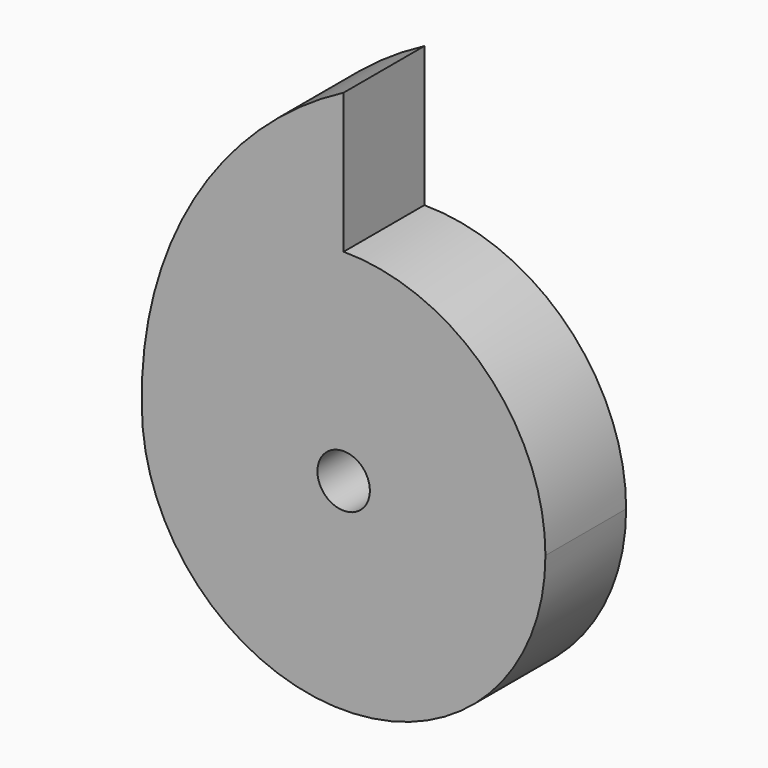
from build123d import *

# Parameters (mm, degrees)
F0_R     = 3.302
F1_DEPTH = 12.7


with BuildPart() as f1:
    # F0 (on Front) → F1 (new body)
    with BuildSketch(Plane.XZ):
        with BuildLine():
            ThreePointArc((-25.4, 0), (0, -25.4), (25.4, 0))
            ThreePointArc((25.4, 0), (17.960512, 17.960512), (0, 25.4))
            ThreePointArc((0, 25.4), (-17.960512, 17.960512), (-25.4, 0))
        make_face()
        Circle(F0_R, mode=Mode.SUBTRACT)
        with BuildLine():
            ThreePointArc((-25.4, 0), (-17.960512, 17.960512), (0, 25.4))
            Line((0, 25.4), (0, 43.026961))
            ThreePointArc((0, 43.026961), (-18.83358, 25.134302), (-25.4, 0))
        make_face()
    extrude(amount=F1_DEPTH)


solid = f1.part
